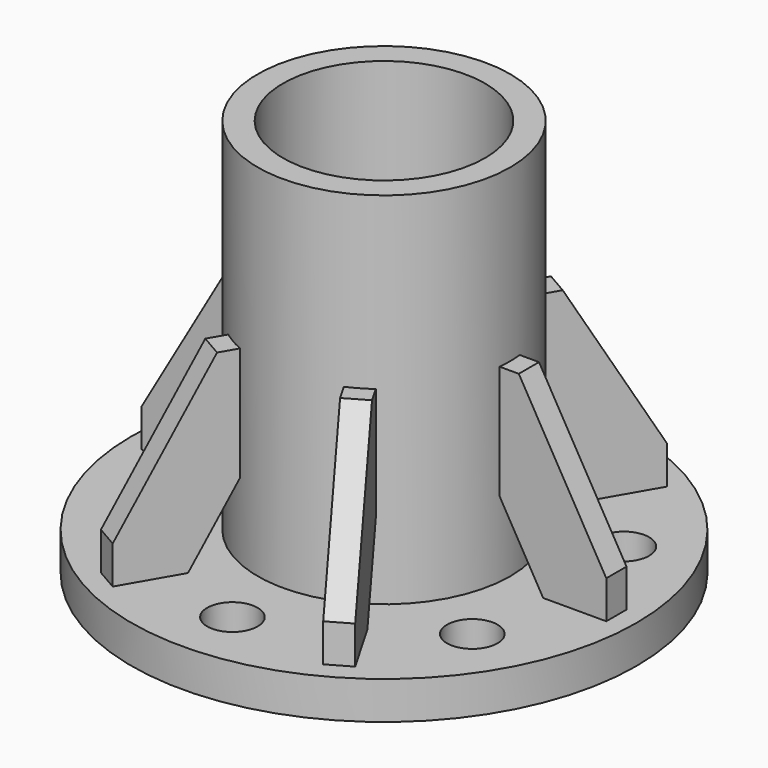
from build123d import *

# Parameters (mm, degrees)
F0_R     = 100
F0_R_2   = 10
F0_R_3   = 50
F1_DEPTH = 15
F2_START = 7.5
F0_R_4   = 40
F2_DEPTH = 150
F4_DEPTH = 5
F6_COUNT = 6


with BuildPart() as f1:
    # F0 (on Top) → F1 (new body)
    with BuildSketch(Plane.XY):
        Circle(F0_R)
        with Locations((-64.9519052838, -37.5)):
            Circle(F0_R_2, mode=Mode.SUBTRACT)
        with Locations((0, -75)):
            Circle(F0_R_2, mode=Mode.SUBTRACT)
        with Locations((64.9519052838, -37.5)):
            Circle(F0_R_2, mode=Mode.SUBTRACT)
        with Locations((-64.9519052838, 37.5)):
            Circle(F0_R_2, mode=Mode.SUBTRACT)
        Circle(F0_R_3, mode=Mode.SUBTRACT)
        with Locations((64.9519052838, 37.5)):
            Circle(F0_R_2, mode=Mode.SUBTRACT)
        with Locations((0, 75)):
            Circle(F0_R_2, mode=Mode.SUBTRACT)
    extrude(amount=F1_DEPTH)


with BuildPart() as f2:
    # F0 (on Top) → F2 (new body)
    with BuildSketch(Plane.XY.offset(F2_START)):
        Circle(F0_R_3)
        Circle(F0_R_4, mode=Mode.SUBTRACT)
    extrude(amount=F2_DEPTH)


with BuildPart() as f4:
    # F3 (on Front) → F4 (new body, symmetric)
    with BuildSketch(Plane.XZ):
        Polygon((-92, 30), (-92, 15), (-67, 15), (-48, 47.9089653438), (-48, 90), (-57.3589838486, 90), align=None)
    extrude(amount=F4_DEPTH, both=True)

    # F5: cut F2
    add(f2.part, mode=Mode.SUBTRACT)


with BuildPart() as f6_1:
    # F6: instance of F4
    add(f4.part.rotate(Axis((0, 0, 157.5), (0, 0, 1)), 1 * 360 / F6_COUNT))


with BuildPart() as f6_2:
    # F6: instance of F4
    add(f4.part.rotate(Axis((0, 0, 157.5), (0, 0, 1)), 2 * 360 / F6_COUNT))


with BuildPart() as f6_3:
    # F6: instance of F4
    add(f4.part.rotate(Axis((0, 0, 157.5), (0, 0, 1)), 3 * 360 / F6_COUNT))


with BuildPart() as f6_4:
    # F6: instance of F4
    add(f4.part.rotate(Axis((0, 0, 157.5), (0, 0, 1)), 4 * 360 / F6_COUNT))


with BuildPart() as f6_5:
    # F6: instance of F4
    add(f4.part.rotate(Axis((0, 0, 157.5), (0, 0, 1)), 5 * 360 / F6_COUNT))


solid = Compound([f1.part, f2.part, f4.part, f6_1.part, f6_2.part, f6_3.part, f6_4.part, f6_5.part])
